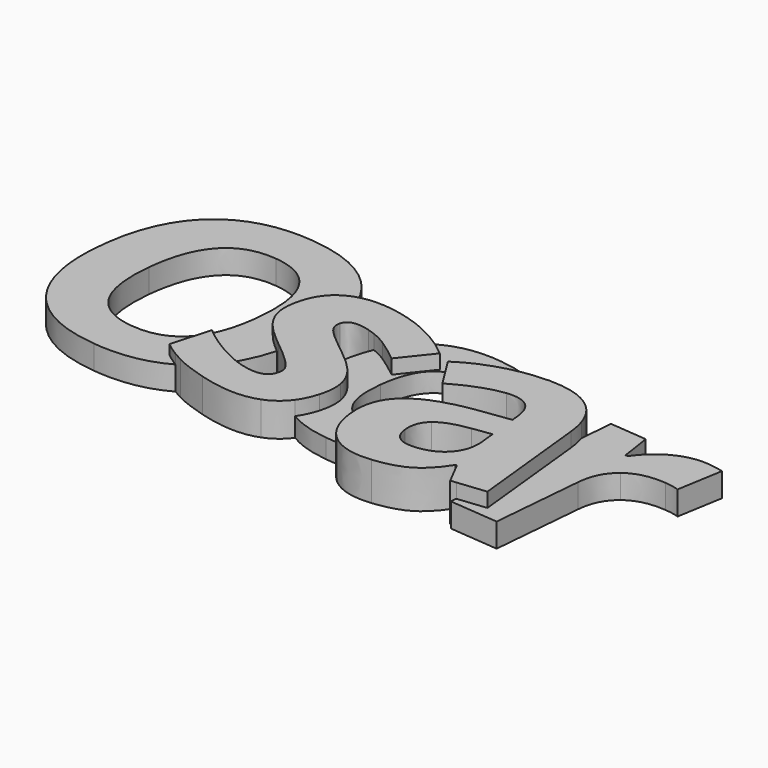
from build123d import *

# Parameters (mm, degrees)
F1_DEPTH = 2.5
F2_DEPTH = 3.5
F3_DEPTH = 2
F4_DEPTH = 4
F5_DEPTH = 2.5


with BuildPart() as f1:
    # F0 (on Top) → F1 (new body)
    with BuildSketch(Plane.XY):
        with BuildLine():
            add(Edge.make_bspline(
                [(-26.2012607292, -7.9470883345), (-26.8828301853, -8.9074317633), (-27.7417516135, -9.6639204746)],
                knots=[0.7456392645, 0.7456392645, 0.7456392645, 1, 1, 1], degree=2))
            add(Edge.make_bspline(
                [(-26.7376853895, -7.6464975971), (-26.465308143, -7.8047908634), (-26.2012607292, -7.9470883345)],
                knots=[0, 0, 0, 0.1690185658, 0.1690185658, 0.1690185658], degree=2))
            add(Edge.make_bspline(
                [(-29.5456779618, -5.6633392455), (-28.3492080362, -6.7099539366), (-26.7376853895, -7.6464975971)],
                knots=[0, 0, 0, 1, 1, 1], degree=2))
            Line((-29.5456779618, -5.6633392455), (-30.7171863832, -9.7692274874))
            add(Edge.make_bspline(
                [(-29.2894893449, -10.7723393822), (-30.0522189607, -10.3089419389), (-30.7171863832, -9.7692274874)],
                knots=[0.3796673678, 0.3796673678, 0.3796673678, 1, 1, 1], degree=2))
            add(Edge.make_bspline(
                [(-27.7417516135, -9.6639204746), (-28.4633479267, -10.2994611039), (-29.2894893449, -10.7723393822)],
                knots=[0, 0, 0, 0.2136933169, 0.2136933169, 0.2136933169], degree=2))
        make_face()
        with BuildLine():
            add(Edge.make_bspline(
                [(-24.2995328681, -3.7453658675), (-24.9529213499, -6.188156051), (-26.2012607292, -7.9470883345)],
                knots=[0.2797608131, 0.2797608131, 0.2797608131, 0.7456392645, 0.7456392645, 0.7456392645], degree=2))
            add(Edge.make_bspline(
                [(-24.2995328681, -3.7453658675), (-25.7424383845, -2.5384222577), (-26.4026306936, -1.6573454121)],
                knots=[0.1473611547, 0.1473611547, 0.1473611547, 1, 1, 1], degree=2))
            add(Edge.make_bspline(
                [(-26.4026306936, -1.6573454121), (-27.1769237167, -0.6239924862), (-27.3461141593, 0.4736684834)],
                knots=[0, 0, 0, 1, 1, 1], degree=2))
            add(Edge.make_bspline(
                [(-27.3461141593, 0.4736684834), (-27.5153046019, 1.5713294529), (-27.1119008125, 2.9851740699)],
                knots=[0, 0, 0, 1, 1, 1], degree=2))
            add(Edge.make_bspline(
                [(-27.1119008125, 2.9851740699), (-26.4319065298, 5.3684096308), (-24.2471294552, 6.1756458661)],
                knots=[0, 0, 0, 0.9802766592, 0.9802766592, 0.9802766592], degree=2))
            add(Edge.make_bspline(
                [(-25.7641411364, 9.1560877701), (-24.7821335347, 7.8381607888), (-24.2471294552, 6.1756458661)],
                knots=[0, 0, 0, 0.3675832045, 0.3675832045, 0.3675832045], degree=2))
            add(Edge.make_bspline(
                [(-34.1180403279, 13.3311660192), (-28.4356658138, 12.741471883), (-25.7641411364, 9.1560877701)],
                knots=[0, 0, 0, 1, 1, 1], degree=2))
            add(Edge.make_bspline(
                [(-43.1808139388, 10.9907929404), (-39.8004148421, 13.9208601554), (-34.1180403279, 13.3311660192)],
                knots=[0, 0, 0, 1, 1, 1], degree=2))
            add(Edge.make_bspline(
                [(-47.2001883532, 1.9034709099), (-46.5612130356, 8.0607257253), (-43.1808139388, 10.9907929404)],
                knots=[0, 0, 0, 1, 1, 1], degree=2))
            add(Edge.make_bspline(
                [(-45.1450353819, -7.8578771799), (-47.8391636708, -4.2537839055), (-47.2001883532, 1.9034709099)],
                knots=[0, 0, 0, 1, 1, 1], degree=2))
            add(Edge.make_bspline(
                [(-36.7847216801, -12.0499845503), (-42.450907093, -11.4619704544), (-45.1450353819, -7.8578771799)],
                knots=[0, 0, 0, 1, 1, 1], degree=2))
            add(Edge.make_bspline(
                [(-29.2894893449, -10.7723393822), (-32.3293622224, -12.5123439637), (-36.7847216801, -12.0499845503)],
                knots=[0.2136933169, 0.2136933169, 0.2136933169, 1, 1, 1], degree=2))
            add(Edge.make_bspline(
                [(-29.2894893449, -10.7723393822), (-30.0522189607, -10.3089419389), (-30.7171863832, -9.7692274874)],
                knots=[0.3796673678, 0.3796673678, 0.3796673678, 1, 1, 1], degree=2))
            Line((-30.7171863832, -9.7692274874), (-29.5456779618, -5.6633392455))
            add(Edge.make_bspline(
                [(-29.5456779618, -5.6633392455), (-28.3492080362, -6.7099539366), (-26.7376853895, -7.6464975971)],
                knots=[0, 0, 0, 1, 1, 1], degree=2))
            add(Edge.make_bspline(
                [(-26.7376853895, -7.6464975971), (-26.465308143, -7.8047908634), (-26.2012607292, -7.9470883345)],
                knots=[0, 0, 0, 0.1690185658, 0.1690185658, 0.1690185658], degree=2))
        make_face()
        with BuildLine():
            add(Edge.make_bspline(
                [(-41.7208395008, 1.3021190681), (-42.1498097842, -2.8314980999), (-40.7991703553, -5.0852742355)],
                knots=[0, 0, 0, 1, 1, 1], degree=2))
            add(Edge.make_bspline(
                [(-39.4907502766, 7.3651627151), (-41.2924292309, 5.4303398689), (-41.7208395008, 1.3021190681)],
                knots=[0, 0, 0, 1, 1, 1], degree=2))
            add(Edge.make_bspline(
                [(-34.5699711617, 8.9762978018), (-37.6890713223, 9.2999855613), (-39.4907502766, 7.3651627151)],
                knots=[0, 0, 0, 1, 1, 1], degree=2))
            add(Edge.make_bspline(
                [(-29.2120606558, 0.0040079496), (-28.3479599415, 8.3306023231), (-34.5699711617, 8.9762978018)],
                knots=[0, 0, 0, 1, 1, 1], degree=2))
            add(Edge.make_bspline(
                [(-36.3294307658, -7.6627381306), (-30.0750413433, -8.3117936898), (-29.2120606558, 0.0040079496)],
                knots=[0, 0, 0, 1, 1, 1], degree=2))
            add(Edge.make_bspline(
                [(-40.7991703553, -5.0852742355), (-39.4485309265, -7.3390503711), (-36.3294307658, -7.6627381306)],
                knots=[0, 0, 0, 1, 1, 1], degree=2))
        make_face(mode=Mode.SUBTRACT)
        with BuildLine():
            add(Edge.make_bspline(
                [(-23.7293517229, -0.5649656899), (-23.9071719585, -2.2784661514), (-24.2995328681, -3.7453658675)],
                knots=[0, 0, 0, 0.2797608131, 0.2797608131, 0.2797608131], degree=2))
            add(Edge.make_bspline(
                [(-24.2471294552, 6.1756458661), (-23.3266696477, 3.3153346572), (-23.7293517229, -0.5649656899)],
                knots=[0.3675832045, 0.3675832045, 0.3675832045, 1, 1, 1], degree=2))
            add(Edge.make_bspline(
                [(-27.1119008125, 2.9851740699), (-26.4319065298, 5.3684096308), (-24.2471294552, 6.1756458661)],
                knots=[0, 0, 0, 0.9802766592, 0.9802766592, 0.9802766592], degree=2))
            add(Edge.make_bspline(
                [(-27.3461141593, 0.4736684834), (-27.5153046019, 1.5713294529), (-27.1119008125, 2.9851740699)],
                knots=[0, 0, 0, 1, 1, 1], degree=2))
            add(Edge.make_bspline(
                [(-26.4026306936, -1.6573454121), (-27.1769237167, -0.6239924862), (-27.3461141593, 0.4736684834)],
                knots=[0, 0, 0, 1, 1, 1], degree=2))
            add(Edge.make_bspline(
                [(-24.2995328681, -3.7453658675), (-25.7424383845, -2.5384222577), (-26.4026306936, -1.6573454121)],
                knots=[0.1473611547, 0.1473611547, 0.1473611547, 1, 1, 1], degree=2))
        make_face()
        with BuildLine():
            add(Edge.make_bspline(
                [(-24.2995328681, -3.7453658675), (-24.9529213499, -6.188156051), (-26.2012607292, -7.9470883345)],
                knots=[0.2797608131, 0.2797608131, 0.2797608131, 0.7456392645, 0.7456392645, 0.7456392645], degree=2))
            add(Edge.make_bspline(
                [(-24.2995328681, -3.7453658675), (-25.7424383845, -2.5384222577), (-26.4026306936, -1.6573454121)],
                knots=[0.1473611547, 0.1473611547, 0.1473611547, 1, 1, 1], degree=2))
            add(Edge.make_bspline(
                [(-26.4026306936, -1.6573454121), (-27.1769237167, -0.6239924862), (-27.3461141593, 0.4736684834)],
                knots=[0, 0, 0, 1, 1, 1], degree=2))
            add(Edge.make_bspline(
                [(-27.3461141593, 0.4736684834), (-27.5153046019, 1.5713294529), (-27.1119008125, 2.9851740699)],
                knots=[0, 0, 0, 1, 1, 1], degree=2))
            add(Edge.make_bspline(
                [(-27.1119008125, 2.9851740699), (-26.4319065298, 5.3684096308), (-24.2471294552, 6.1756458661)],
                knots=[0, 0, 0, 0.9802766592, 0.9802766592, 0.9802766592], degree=2))
            add(Edge.make_bspline(
                [(-25.7641411364, 9.1560877701), (-24.7821335347, 7.8381607888), (-24.2471294552, 6.1756458661)],
                knots=[0, 0, 0, 0.3675832045, 0.3675832045, 0.3675832045], degree=2))
            add(Edge.make_bspline(
                [(-34.1180403279, 13.3311660192), (-28.4356658138, 12.741471883), (-25.7641411364, 9.1560877701)],
                knots=[0, 0, 0, 1, 1, 1], degree=2))
            add(Edge.make_bspline(
                [(-43.1808139388, 10.9907929404), (-39.8004148421, 13.9208601554), (-34.1180403279, 13.3311660192)],
                knots=[0, 0, 0, 1, 1, 1], degree=2))
            add(Edge.make_bspline(
                [(-47.2001883532, 1.9034709099), (-46.5612130356, 8.0607257253), (-43.1808139388, 10.9907929404)],
                knots=[0, 0, 0, 1, 1, 1], degree=2))
            add(Edge.make_bspline(
                [(-45.1450353819, -7.8578771799), (-47.8391636708, -4.2537839055), (-47.2001883532, 1.9034709099)],
                knots=[0, 0, 0, 1, 1, 1], degree=2))
            add(Edge.make_bspline(
                [(-36.7847216801, -12.0499845503), (-42.450907093, -11.4619704544), (-45.1450353819, -7.8578771799)],
                knots=[0, 0, 0, 1, 1, 1], degree=2))
            add(Edge.make_bspline(
                [(-29.2894893449, -10.7723393822), (-32.3293622224, -12.5123439637), (-36.7847216801, -12.0499845503)],
                knots=[0.2136933169, 0.2136933169, 0.2136933169, 1, 1, 1], degree=2))
            add(Edge.make_bspline(
                [(-29.2894893449, -10.7723393822), (-30.0522189607, -10.3089419389), (-30.7171863832, -9.7692274874)],
                knots=[0.3796673678, 0.3796673678, 0.3796673678, 1, 1, 1], degree=2))
            Line((-30.7171863832, -9.7692274874), (-29.5456779618, -5.6633392455))
            add(Edge.make_bspline(
                [(-29.5456779618, -5.6633392455), (-28.3492080362, -6.7099539366), (-26.7376853895, -7.6464975971)],
                knots=[0, 0, 0, 1, 1, 1], degree=2))
            add(Edge.make_bspline(
                [(-26.7376853895, -7.6464975971), (-26.465308143, -7.8047908634), (-26.2012607292, -7.9470883345)],
                knots=[0, 0, 0, 0.1690185658, 0.1690185658, 0.1690185658], degree=2))
        make_face()
        with BuildLine():
            add(Edge.make_bspline(
                [(-41.7208395008, 1.3021190681), (-42.1498097842, -2.8314980999), (-40.7991703553, -5.0852742355)],
                knots=[0, 0, 0, 1, 1, 1], degree=2))
            add(Edge.make_bspline(
                [(-39.4907502766, 7.3651627151), (-41.2924292309, 5.4303398689), (-41.7208395008, 1.3021190681)],
                knots=[0, 0, 0, 1, 1, 1], degree=2))
            add(Edge.make_bspline(
                [(-34.5699711617, 8.9762978018), (-37.6890713223, 9.2999855613), (-39.4907502766, 7.3651627151)],
                knots=[0, 0, 0, 1, 1, 1], degree=2))
            add(Edge.make_bspline(
                [(-29.2120606558, 0.0040079496), (-28.3479599415, 8.3306023231), (-34.5699711617, 8.9762978018)],
                knots=[0, 0, 0, 1, 1, 1], degree=2))
            add(Edge.make_bspline(
                [(-36.3294307658, -7.6627381306), (-30.0750413433, -8.3117936898), (-29.2120606558, 0.0040079496)],
                knots=[0, 0, 0, 1, 1, 1], degree=2))
            add(Edge.make_bspline(
                [(-40.7991703553, -5.0852742355), (-39.4485309265, -7.3390503711), (-36.3294307658, -7.6627381306)],
                knots=[0, 0, 0, 1, 1, 1], degree=2))
        make_face(mode=Mode.SUBTRACT)
    extrude(amount=F1_DEPTH)

    # F0 (on Top) → F2 (join)
    with BuildSketch(Plane.XY):
        with BuildLine():
            add(Edge.make_bspline(
                [(-16.5097582907, 5.3201339219), (-14.333011163, 4.3724577061), (-12.4427318379, 2.7490136793)],
                knots=[0.3012613587, 0.3012613587, 0.3012613587, 1, 1, 1], degree=2))
            add(Edge.make_bspline(
                [(-16.5162000367, 5.3147992013), (-16.5129804158, 5.3174685432), (-16.5097582907, 5.3201339219)],
                knots=[0, 0, 0, 0.0011929105, 0.0011929105, 0.0011929105], degree=2))
            add(Edge.make_bspline(
                [(-18.8361017338, 2.1042061315), (-17.9912420508, 4.0918628275), (-16.5162000367, 5.3147992013)],
                knots=[0.4534781826, 0.4534781826, 0.4534781826, 1, 1, 1], degree=2))
            add(Edge.make_bspline(
                [(-17.2504189894, 1.2829041064), (-18.0045770297, 1.7811299612), (-18.8361017338, 2.1042061315)],
                knots=[0, 0, 0, 0.6967910533, 0.6967910533, 0.6967910533], degree=2))
            add(Edge.make_bspline(
                [(-14.9627016104, -0.4079396947), (-16.1680887317, 0.5678750422), (-17.2504189894, 1.2829041064)],
                knots=[0, 0, 0, 1, 1, 1], degree=2))
            Line((-14.9627016104, -0.4079396947), (-12.4427318379, 2.7490136793))
        make_face()
        with BuildLine():
            add(Edge.make_bspline(
                [(-24.2471294552, 6.1756458661), (-23.3266696477, 3.3153346572), (-23.7293517229, -0.5649656899)],
                knots=[0.3675832045, 0.3675832045, 0.3675832045, 1, 1, 1], degree=2))
            add(Edge.make_bspline(
                [(-23.7293517229, -0.5649656899), (-23.9071719585, -2.2784661514), (-24.2995328681, -3.7453658675)],
                knots=[0, 0, 0, 0.2797608131, 0.2797608131, 0.2797608131], degree=2))
            add(Edge.make_bspline(
                [(-23.7773998837, -4.1722904686), (-24.0501562132, -3.9539613414), (-24.2995328681, -3.7453658675)],
                knots=[0, 0, 0, 0.1473611547, 0.1473611547, 0.1473611547], degree=2))
            add(Edge.make_bspline(
                [(-21.7404309872, -5.9213526052), (-22.4870357131, -5.206202386), (-23.7773998837, -4.1722904686)],
                knots=[0, 0, 0, 1, 1, 1], degree=2))
            add(Edge.make_bspline(
                [(-20.7387882118, -7.1070227763), (-20.9938262613, -6.6365028245), (-21.7404309872, -5.9213526052)],
                knots=[0, 0, 0, 1, 1, 1], degree=2))
            add(Edge.make_bspline(
                [(-20.6519591224, -8.1670794135), (-20.4837501623, -7.5775427282), (-20.7387882118, -7.1070227763)],
                knots=[0, 0, 0, 1, 1, 1], degree=2))
            add(Edge.make_bspline(
                [(-23.8062266243, -8.9596506993), (-21.0985315829, -9.732221056), (-20.6519591224, -8.1670794135)],
                knots=[0, 0, 0, 1, 1, 1], degree=2))
            add(Edge.make_bspline(
                [(-26.2012607292, -7.9470883345), (-24.9030690331, -8.6466952453), (-23.8062266243, -8.9596506993)],
                knots=[0.1690185658, 0.1690185658, 0.1690185658, 1, 1, 1], degree=2))
            add(Edge.make_bspline(
                [(-26.2012607292, -7.9470883345), (-26.8828301853, -8.9074317633), (-27.7417516135, -9.6639204746)],
                knots=[0.7456392645, 0.7456392645, 0.7456392645, 1, 1, 1], degree=2))
            add(Edge.make_bspline(
                [(-27.7417516135, -9.6639204746), (-28.4633479267, -10.2994611039), (-29.2894893449, -10.7723393822)],
                knots=[0, 0, 0, 0.2136933169, 0.2136933169, 0.2136933169], degree=2))
            add(Edge.make_bspline(
                [(-28.3192289427, -11.3109857451), (-28.8226695606, -11.0559563942), (-29.2894893449, -10.7723393822)],
                knots=[0, 0, 0, 0.3796673678, 0.3796673678, 0.3796673678], degree=2))
            add(Edge.make_bspline(
                [(-25.0054946106, -12.5498506276), (-26.9932244965, -11.9827036027), (-28.3192289427, -11.3109857451)],
                knots=[0, 0, 0, 1, 1, 1], degree=2))
            add(Edge.make_bspline(
                [(-18.7563081672, -12.7447084686), (-21.1239433374, -13.6573503297), (-25.0054946106, -12.5498506276)],
                knots=[0, 0, 0, 1, 1, 1], degree=2))
            add(Edge.make_bspline(
                [(-16.5382450603, -11.05067248), (-17.3841573162, -12.2157915467), (-18.7563081672, -12.7447084686)],
                knots=[0.4204551157, 0.4204551157, 0.4204551157, 1, 1, 1], degree=2))
            add(Edge.make_bspline(
                [(-16.5382450603, -11.05067248), (-20.6372867392, -8.5051427712), (-19.8042772645, -1.7208250315)],
                knots=[0.2965514387, 0.2965514387, 0.2965514387, 1, 1, 1], degree=2))
            add(Edge.make_bspline(
                [(-19.8042772645, -1.7208250315), (-19.7810809929, -1.5319065598), (-19.754613664, -1.3469574854)],
                knots=[0, 0, 0, 0.03937481, 0.03937481, 0.03937481], degree=2))
            add(Edge.make_bspline(
                [(-21.7363886734, 0.430233938), (-21.2691411001, -0.138117727), (-19.754613664, -1.3469574854)],
                knots=[0, 0, 0, 0.820301269, 0.820301269, 0.820301269], degree=2))
            add(Edge.make_bspline(
                [(-22.1154559305, 1.7908849355), (-22.3059935136, 1.1230911681), (-21.7363886734, 0.430233938)],
                knots=[0, 0, 0, 1, 1, 1], degree=2))
            add(Edge.make_bspline(
                [(-19.5744282835, 2.3522139893), (-21.7760608605, 2.9803925838), (-22.1154559305, 1.7908849355)],
                knots=[0, 0, 0, 1, 1, 1], degree=2))
            add(Edge.make_bspline(
                [(-18.8361017338, 2.1042061315), (-19.1979400906, 2.2447928754), (-19.5744282835, 2.3522139893)],
                knots=[0.6967910533, 0.6967910533, 0.6967910533, 1, 1, 1], degree=2))
            add(Edge.make_bspline(
                [(-18.8361017338, 2.1042061315), (-17.9912420508, 4.0918628275), (-16.5162000367, 5.3147992013)],
                knots=[0.4534781826, 0.4534781826, 0.4534781826, 1, 1, 1], degree=2))
            add(Edge.make_bspline(
                [(-16.5162000367, 5.3147992013), (-16.5129804158, 5.3174685432), (-16.5097582907, 5.3201339219)],
                knots=[0, 0, 0, 0.0011929105, 0.0011929105, 0.0011929105], degree=2))
            add(Edge.make_bspline(
                [(-18.4400202054, 6.0116967899), (-17.4482634178, 5.7287247847), (-16.5097582907, 5.3201339219)],
                knots=[0, 0, 0, 0.3012613587, 0.3012613587, 0.3012613587], degree=2))
            add(Edge.make_bspline(
                [(-24.1586040795, 6.2074913411), (-21.8989832352, 6.9986219277), (-18.4400202054, 6.0116967899)],
                knots=[0, 0, 0, 1, 1, 1], degree=2))
            add(Edge.make_bspline(
                [(-24.2471294552, 6.1756458661), (-24.2031713516, 6.1918876029), (-24.1586040795, 6.2074913411)],
                knots=[0.9802766592, 0.9802766592, 0.9802766592, 1, 1, 1], degree=2))
        make_face()
        with BuildLine():
            add(Edge.make_bspline(
                [(-16.5097582907, 5.3201339219), (-14.333011163, 4.3724577061), (-12.4427318379, 2.7490136793)],
                knots=[0.3012613587, 0.3012613587, 0.3012613587, 1, 1, 1], degree=2))
            add(Edge.make_bspline(
                [(-16.5162000367, 5.3147992013), (-16.5129804158, 5.3174685432), (-16.5097582907, 5.3201339219)],
                knots=[0, 0, 0, 0.0011929105, 0.0011929105, 0.0011929105], degree=2))
            add(Edge.make_bspline(
                [(-18.8361017338, 2.1042061315), (-17.9912420508, 4.0918628275), (-16.5162000367, 5.3147992013)],
                knots=[0.4534781826, 0.4534781826, 0.4534781826, 1, 1, 1], degree=2))
            add(Edge.make_bspline(
                [(-17.2504189894, 1.2829041064), (-18.0045770297, 1.7811299612), (-18.8361017338, 2.1042061315)],
                knots=[0, 0, 0, 0.6967910533, 0.6967910533, 0.6967910533], degree=2))
            add(Edge.make_bspline(
                [(-14.9627016104, -0.4079396947), (-16.1680887317, 0.5678750422), (-17.2504189894, 1.2829041064)],
                knots=[0, 0, 0, 1, 1, 1], degree=2))
            Line((-14.9627016104, -0.4079396947), (-12.4427318379, 2.7490136793))
        make_face()
        with BuildLine():
            add(Edge.make_bspline(
                [(-23.7293517229, -0.5649656899), (-23.9071719585, -2.2784661514), (-24.2995328681, -3.7453658675)],
                knots=[0, 0, 0, 0.2797608131, 0.2797608131, 0.2797608131], degree=2))
            add(Edge.make_bspline(
                [(-24.2471294552, 6.1756458661), (-23.3266696477, 3.3153346572), (-23.7293517229, -0.5649656899)],
                knots=[0.3675832045, 0.3675832045, 0.3675832045, 1, 1, 1], degree=2))
            add(Edge.make_bspline(
                [(-27.1119008125, 2.9851740699), (-26.4319065298, 5.3684096308), (-24.2471294552, 6.1756458661)],
                knots=[0, 0, 0, 0.9802766592, 0.9802766592, 0.9802766592], degree=2))
            add(Edge.make_bspline(
                [(-27.3461141593, 0.4736684834), (-27.5153046019, 1.5713294529), (-27.1119008125, 2.9851740699)],
                knots=[0, 0, 0, 1, 1, 1], degree=2))
            add(Edge.make_bspline(
                [(-26.4026306936, -1.6573454121), (-27.1769237167, -0.6239924862), (-27.3461141593, 0.4736684834)],
                knots=[0, 0, 0, 1, 1, 1], degree=2))
            add(Edge.make_bspline(
                [(-24.2995328681, -3.7453658675), (-25.7424383845, -2.5384222577), (-26.4026306936, -1.6573454121)],
                knots=[0.1473611547, 0.1473611547, 0.1473611547, 1, 1, 1], degree=2))
        make_face()
        with BuildLine():
            add(Edge.make_bspline(
                [(-24.2471294552, 6.1756458661), (-23.3266696477, 3.3153346572), (-23.7293517229, -0.5649656899)],
                knots=[0.3675832045, 0.3675832045, 0.3675832045, 1, 1, 1], degree=2))
            add(Edge.make_bspline(
                [(-23.7293517229, -0.5649656899), (-23.9071719585, -2.2784661514), (-24.2995328681, -3.7453658675)],
                knots=[0, 0, 0, 0.2797608131, 0.2797608131, 0.2797608131], degree=2))
            add(Edge.make_bspline(
                [(-23.7773998837, -4.1722904686), (-24.0501562132, -3.9539613414), (-24.2995328681, -3.7453658675)],
                knots=[0, 0, 0, 0.1473611547, 0.1473611547, 0.1473611547], degree=2))
            add(Edge.make_bspline(
                [(-21.7404309872, -5.9213526052), (-22.4870357131, -5.206202386), (-23.7773998837, -4.1722904686)],
                knots=[0, 0, 0, 1, 1, 1], degree=2))
            add(Edge.make_bspline(
                [(-20.7387882118, -7.1070227763), (-20.9938262613, -6.6365028245), (-21.7404309872, -5.9213526052)],
                knots=[0, 0, 0, 1, 1, 1], degree=2))
            add(Edge.make_bspline(
                [(-20.6519591224, -8.1670794135), (-20.4837501623, -7.5775427282), (-20.7387882118, -7.1070227763)],
                knots=[0, 0, 0, 1, 1, 1], degree=2))
            add(Edge.make_bspline(
                [(-23.8062266243, -8.9596506993), (-21.0985315829, -9.732221056), (-20.6519591224, -8.1670794135)],
                knots=[0, 0, 0, 1, 1, 1], degree=2))
            add(Edge.make_bspline(
                [(-26.2012607292, -7.9470883345), (-24.9030690331, -8.6466952453), (-23.8062266243, -8.9596506993)],
                knots=[0.1690185658, 0.1690185658, 0.1690185658, 1, 1, 1], degree=2))
            add(Edge.make_bspline(
                [(-26.2012607292, -7.9470883345), (-26.8828301853, -8.9074317633), (-27.7417516135, -9.6639204746)],
                knots=[0.7456392645, 0.7456392645, 0.7456392645, 1, 1, 1], degree=2))
            add(Edge.make_bspline(
                [(-27.7417516135, -9.6639204746), (-28.4633479267, -10.2994611039), (-29.2894893449, -10.7723393822)],
                knots=[0, 0, 0, 0.2136933169, 0.2136933169, 0.2136933169], degree=2))
            add(Edge.make_bspline(
                [(-28.3192289427, -11.3109857451), (-28.8226695606, -11.0559563942), (-29.2894893449, -10.7723393822)],
                knots=[0, 0, 0, 0.3796673678, 0.3796673678, 0.3796673678], degree=2))
            add(Edge.make_bspline(
                [(-25.0054946106, -12.5498506276), (-26.9932244965, -11.9827036027), (-28.3192289427, -11.3109857451)],
                knots=[0, 0, 0, 1, 1, 1], degree=2))
            add(Edge.make_bspline(
                [(-18.7563081672, -12.7447084686), (-21.1239433374, -13.6573503297), (-25.0054946106, -12.5498506276)],
                knots=[0, 0, 0, 1, 1, 1], degree=2))
            add(Edge.make_bspline(
                [(-16.5382450603, -11.05067248), (-17.3841573162, -12.2157915467), (-18.7563081672, -12.7447084686)],
                knots=[0.4204551157, 0.4204551157, 0.4204551157, 1, 1, 1], degree=2))
            add(Edge.make_bspline(
                [(-16.5382450603, -11.05067248), (-20.6372867392, -8.5051427712), (-19.8042772645, -1.7208250315)],
                knots=[0.2965514387, 0.2965514387, 0.2965514387, 1, 1, 1], degree=2))
            add(Edge.make_bspline(
                [(-19.8042772645, -1.7208250315), (-19.7810809929, -1.5319065598), (-19.754613664, -1.3469574854)],
                knots=[0, 0, 0, 0.03937481, 0.03937481, 0.03937481], degree=2))
            add(Edge.make_bspline(
                [(-21.7363886734, 0.430233938), (-21.2691411001, -0.138117727), (-19.754613664, -1.3469574854)],
                knots=[0, 0, 0, 0.820301269, 0.820301269, 0.820301269], degree=2))
            add(Edge.make_bspline(
                [(-22.1154559305, 1.7908849355), (-22.3059935136, 1.1230911681), (-21.7363886734, 0.430233938)],
                knots=[0, 0, 0, 1, 1, 1], degree=2))
            add(Edge.make_bspline(
                [(-19.5744282835, 2.3522139893), (-21.7760608605, 2.9803925838), (-22.1154559305, 1.7908849355)],
                knots=[0, 0, 0, 1, 1, 1], degree=2))
            add(Edge.make_bspline(
                [(-18.8361017338, 2.1042061315), (-19.1979400906, 2.2447928754), (-19.5744282835, 2.3522139893)],
                knots=[0.6967910533, 0.6967910533, 0.6967910533, 1, 1, 1], degree=2))
            add(Edge.make_bspline(
                [(-18.8361017338, 2.1042061315), (-17.9912420508, 4.0918628275), (-16.5162000367, 5.3147992013)],
                knots=[0.4534781826, 0.4534781826, 0.4534781826, 1, 1, 1], degree=2))
            add(Edge.make_bspline(
                [(-16.5162000367, 5.3147992013), (-16.5129804158, 5.3174685432), (-16.5097582907, 5.3201339219)],
                knots=[0, 0, 0, 0.0011929105, 0.0011929105, 0.0011929105], degree=2))
            add(Edge.make_bspline(
                [(-18.4400202054, 6.0116967899), (-17.4482634178, 5.7287247847), (-16.5097582907, 5.3201339219)],
                knots=[0, 0, 0, 0.3012613587, 0.3012613587, 0.3012613587], degree=2))
            add(Edge.make_bspline(
                [(-24.1586040795, 6.2074913411), (-21.8989832352, 6.9986219277), (-18.4400202054, 6.0116967899)],
                knots=[0, 0, 0, 1, 1, 1], degree=2))
            add(Edge.make_bspline(
                [(-24.2471294552, 6.1756458661), (-24.2031713516, 6.1918876029), (-24.1586040795, 6.2074913411)],
                knots=[0.9802766592, 0.9802766592, 0.9802766592, 1, 1, 1], degree=2))
        make_face()
        with BuildLine():
            add(Edge.make_bspline(
                [(-23.7293517229, -0.5649656899), (-23.9071719585, -2.2784661514), (-24.2995328681, -3.7453658675)],
                knots=[0, 0, 0, 0.2797608131, 0.2797608131, 0.2797608131], degree=2))
            add(Edge.make_bspline(
                [(-24.2471294552, 6.1756458661), (-23.3266696477, 3.3153346572), (-23.7293517229, -0.5649656899)],
                knots=[0.3675832045, 0.3675832045, 0.3675832045, 1, 1, 1], degree=2))
            add(Edge.make_bspline(
                [(-27.1119008125, 2.9851740699), (-26.4319065298, 5.3684096308), (-24.2471294552, 6.1756458661)],
                knots=[0, 0, 0, 0.9802766592, 0.9802766592, 0.9802766592], degree=2))
            add(Edge.make_bspline(
                [(-27.3461141593, 0.4736684834), (-27.5153046019, 1.5713294529), (-27.1119008125, 2.9851740699)],
                knots=[0, 0, 0, 1, 1, 1], degree=2))
            add(Edge.make_bspline(
                [(-26.4026306936, -1.6573454121), (-27.1769237167, -0.6239924862), (-27.3461141593, 0.4736684834)],
                knots=[0, 0, 0, 1, 1, 1], degree=2))
            add(Edge.make_bspline(
                [(-24.2995328681, -3.7453658675), (-25.7424383845, -2.5384222577), (-26.4026306936, -1.6573454121)],
                knots=[0.1473611547, 0.1473611547, 0.1473611547, 1, 1, 1], degree=2))
        make_face()
        with BuildLine():
            add(Edge.make_bspline(
                [(-24.2471294552, 6.1756458661), (-23.3266696477, 3.3153346572), (-23.7293517229, -0.5649656899)],
                knots=[0.3675832045, 0.3675832045, 0.3675832045, 1, 1, 1], degree=2))
            add(Edge.make_bspline(
                [(-23.7293517229, -0.5649656899), (-23.9071719585, -2.2784661514), (-24.2995328681, -3.7453658675)],
                knots=[0, 0, 0, 0.2797608131, 0.2797608131, 0.2797608131], degree=2))
            add(Edge.make_bspline(
                [(-23.7773998837, -4.1722904686), (-24.0501562132, -3.9539613414), (-24.2995328681, -3.7453658675)],
                knots=[0, 0, 0, 0.1473611547, 0.1473611547, 0.1473611547], degree=2))
            add(Edge.make_bspline(
                [(-21.7404309872, -5.9213526052), (-22.4870357131, -5.206202386), (-23.7773998837, -4.1722904686)],
                knots=[0, 0, 0, 1, 1, 1], degree=2))
            add(Edge.make_bspline(
                [(-20.7387882118, -7.1070227763), (-20.9938262613, -6.6365028245), (-21.7404309872, -5.9213526052)],
                knots=[0, 0, 0, 1, 1, 1], degree=2))
            add(Edge.make_bspline(
                [(-20.6519591224, -8.1670794135), (-20.4837501623, -7.5775427282), (-20.7387882118, -7.1070227763)],
                knots=[0, 0, 0, 1, 1, 1], degree=2))
            add(Edge.make_bspline(
                [(-23.8062266243, -8.9596506993), (-21.0985315829, -9.732221056), (-20.6519591224, -8.1670794135)],
                knots=[0, 0, 0, 1, 1, 1], degree=2))
            add(Edge.make_bspline(
                [(-26.2012607292, -7.9470883345), (-24.9030690331, -8.6466952453), (-23.8062266243, -8.9596506993)],
                knots=[0.1690185658, 0.1690185658, 0.1690185658, 1, 1, 1], degree=2))
            add(Edge.make_bspline(
                [(-26.2012607292, -7.9470883345), (-26.8828301853, -8.9074317633), (-27.7417516135, -9.6639204746)],
                knots=[0.7456392645, 0.7456392645, 0.7456392645, 1, 1, 1], degree=2))
            add(Edge.make_bspline(
                [(-27.7417516135, -9.6639204746), (-28.4633479267, -10.2994611039), (-29.2894893449, -10.7723393822)],
                knots=[0, 0, 0, 0.2136933169, 0.2136933169, 0.2136933169], degree=2))
            add(Edge.make_bspline(
                [(-28.3192289427, -11.3109857451), (-28.8226695606, -11.0559563942), (-29.2894893449, -10.7723393822)],
                knots=[0, 0, 0, 0.3796673678, 0.3796673678, 0.3796673678], degree=2))
            add(Edge.make_bspline(
                [(-25.0054946106, -12.5498506276), (-26.9932244965, -11.9827036027), (-28.3192289427, -11.3109857451)],
                knots=[0, 0, 0, 1, 1, 1], degree=2))
            add(Edge.make_bspline(
                [(-18.7563081672, -12.7447084686), (-21.1239433374, -13.6573503297), (-25.0054946106, -12.5498506276)],
                knots=[0, 0, 0, 1, 1, 1], degree=2))
            add(Edge.make_bspline(
                [(-16.5382450603, -11.05067248), (-17.3841573162, -12.2157915467), (-18.7563081672, -12.7447084686)],
                knots=[0.4204551157, 0.4204551157, 0.4204551157, 1, 1, 1], degree=2))
            add(Edge.make_bspline(
                [(-16.5382450603, -11.05067248), (-20.6372867392, -8.5051427712), (-19.8042772645, -1.7208250315)],
                knots=[0.2965514387, 0.2965514387, 0.2965514387, 1, 1, 1], degree=2))
            add(Edge.make_bspline(
                [(-19.8042772645, -1.7208250315), (-19.7810809929, -1.5319065598), (-19.754613664, -1.3469574854)],
                knots=[0, 0, 0, 0.03937481, 0.03937481, 0.03937481], degree=2))
            add(Edge.make_bspline(
                [(-21.7363886734, 0.430233938), (-21.2691411001, -0.138117727), (-19.754613664, -1.3469574854)],
                knots=[0, 0, 0, 0.820301269, 0.820301269, 0.820301269], degree=2))
            add(Edge.make_bspline(
                [(-22.1154559305, 1.7908849355), (-22.3059935136, 1.1230911681), (-21.7363886734, 0.430233938)],
                knots=[0, 0, 0, 1, 1, 1], degree=2))
            add(Edge.make_bspline(
                [(-19.5744282835, 2.3522139893), (-21.7760608605, 2.9803925838), (-22.1154559305, 1.7908849355)],
                knots=[0, 0, 0, 1, 1, 1], degree=2))
            add(Edge.make_bspline(
                [(-18.8361017338, 2.1042061315), (-19.1979400906, 2.2447928754), (-19.5744282835, 2.3522139893)],
                knots=[0.6967910533, 0.6967910533, 0.6967910533, 1, 1, 1], degree=2))
            add(Edge.make_bspline(
                [(-18.8361017338, 2.1042061315), (-17.9912420508, 4.0918628275), (-16.5162000367, 5.3147992013)],
                knots=[0.4534781826, 0.4534781826, 0.4534781826, 1, 1, 1], degree=2))
            add(Edge.make_bspline(
                [(-16.5162000367, 5.3147992013), (-16.5129804158, 5.3174685432), (-16.5097582907, 5.3201339219)],
                knots=[0, 0, 0, 0.0011929105, 0.0011929105, 0.0011929105], degree=2))
            add(Edge.make_bspline(
                [(-18.4400202054, 6.0116967899), (-17.4482634178, 5.7287247847), (-16.5097582907, 5.3201339219)],
                knots=[0, 0, 0, 0.3012613587, 0.3012613587, 0.3012613587], degree=2))
            add(Edge.make_bspline(
                [(-24.1586040795, 6.2074913411), (-21.8989832352, 6.9986219277), (-18.4400202054, 6.0116967899)],
                knots=[0, 0, 0, 1, 1, 1], degree=2))
            add(Edge.make_bspline(
                [(-24.2471294552, 6.1756458661), (-24.2031713516, 6.1918876029), (-24.1586040795, 6.2074913411)],
                knots=[0.9802766592, 0.9802766592, 0.9802766592, 1, 1, 1], degree=2))
        make_face()
        with BuildLine():
            add(Edge.make_bspline(
                [(-19.754613664, -1.3469574854), (-19.4228347571, -1.6117711323), (-19.0407977572, -1.9073212722)],
                knots=[0.820301269, 0.820301269, 0.820301269, 1, 1, 1], degree=2))
            add(Edge.make_bspline(
                [(-19.8042772645, -1.7208250315), (-19.7810809929, -1.5319065598), (-19.754613664, -1.3469574854)],
                knots=[0, 0, 0, 0.03937481, 0.03937481, 0.03937481], degree=2))
            add(Edge.make_bspline(
                [(-16.5382450603, -11.05067248), (-20.6372867392, -8.5051427712), (-19.8042772645, -1.7208250315)],
                knots=[0.2965514387, 0.2965514387, 0.2965514387, 1, 1, 1], degree=2))
            add(Edge.make_bspline(
                [(-15.5878197177, -9.0252459287), (-15.9245425758, -10.2053880418), (-16.5382450603, -11.05067248)],
                knots=[0, 0, 0, 0.4204551157, 0.4204551157, 0.4204551157], degree=2))
            add(Edge.make_bspline(
                [(-15.3979306705, -6.5603331379), (-15.2022788268, -7.6740069774), (-15.5878197177, -9.0252459287)],
                knots=[0, 0, 0, 1, 1, 1], degree=2))
            add(Edge.make_bspline(
                [(-16.3738369635, -4.4144263669), (-15.5935825142, -5.4466592983), (-15.3979306705, -6.5603331379)],
                knots=[0, 0, 0, 1, 1, 1], degree=2))
            add(Edge.make_bspline(
                [(-19.0407977572, -1.9073212722), (-17.1540914128, -3.3821934355), (-16.3738369635, -4.4144263669)],
                knots=[0, 0, 0, 1, 1, 1], degree=2))
        make_face()
        with BuildLine():
            add(Edge.make_bspline(
                [(-26.2012607292, -7.9470883345), (-26.8828301853, -8.9074317633), (-27.7417516135, -9.6639204746)],
                knots=[0.7456392645, 0.7456392645, 0.7456392645, 1, 1, 1], degree=2))
            add(Edge.make_bspline(
                [(-26.7376853895, -7.6464975971), (-26.465308143, -7.8047908634), (-26.2012607292, -7.9470883345)],
                knots=[0, 0, 0, 0.1690185658, 0.1690185658, 0.1690185658], degree=2))
            add(Edge.make_bspline(
                [(-29.5456779618, -5.6633392455), (-28.3492080362, -6.7099539366), (-26.7376853895, -7.6464975971)],
                knots=[0, 0, 0, 1, 1, 1], degree=2))
            Line((-29.5456779618, -5.6633392455), (-30.7171863832, -9.7692274874))
            add(Edge.make_bspline(
                [(-29.2894893449, -10.7723393822), (-30.0522189607, -10.3089419389), (-30.7171863832, -9.7692274874)],
                knots=[0.3796673678, 0.3796673678, 0.3796673678, 1, 1, 1], degree=2))
            add(Edge.make_bspline(
                [(-27.7417516135, -9.6639204746), (-28.4633479267, -10.2994611039), (-29.2894893449, -10.7723393822)],
                knots=[0, 0, 0, 0.2136933169, 0.2136933169, 0.2136933169], degree=2))
        make_face()
    extrude(amount=F2_DEPTH)

    # F0 (on Top) → F3 (join)
    with BuildSketch(Plane.XY):
        with BuildLine():
            Line((-5.6629523609, 1.2218121814), (-4.4001019031, 3.6056590895))
            add(Edge.make_bspline(
                [(-8.2451318666, 2.4734176855), (-6.4483233223, 3.2708991199), (-4.4001019031, 3.6056590895)],
                knots=[0.337198598, 0.337198598, 0.337198598, 0.8698819542, 0.8698819542, 0.8698819542], degree=2))
            add(Edge.make_bspline(
                [(-7.8180198104, 2.3008686962), (-8.0306547316, 2.3941454373), (-8.2451318666, 2.4734176855)],
                knots=[0, 0, 0, 0.2118656456, 0.2118656456, 0.2118656456], degree=2))
            add(Edge.make_bspline(
                [(-5.6629523609, 1.2218121814), (-6.8143888511, 1.8606050529), (-7.8180198104, 2.3008686962)],
                knots=[0, 0, 0, 1, 1, 1], degree=2))
        make_face()
        with BuildLine():
            add(Edge.make_bspline(
                [(-16.5097582907, 5.3201339219), (-13.8119184767, 7.5518177749), (-9.3585338952, 7.0050109045)],
                knots=[0.0011929105, 0.0011929105, 0.0011929105, 1, 1, 1], degree=2))
            add(Edge.make_bspline(
                [(-16.5097582907, 5.3201339219), (-14.333011163, 4.3724577061), (-12.4427318379, 2.7490136793)],
                knots=[0.3012613587, 0.3012613587, 0.3012613587, 1, 1, 1], degree=2))
            Line((-12.4427318379, 2.7490136793), (-14.9627016104, -0.4079396947))
            add(Edge.make_bspline(
                [(-14.9627016104, -0.4079396947), (-16.1680887317, 0.5678750422), (-17.2504189894, 1.2829041064)],
                knots=[0, 0, 0, 1, 1, 1], degree=2))
            add(Edge.make_bspline(
                [(-17.2504189894, 1.2829041064), (-18.0045770297, 1.7811299612), (-18.8361017338, 2.1042061315)],
                knots=[0, 0, 0, 0.6967910533, 0.6967910533, 0.6967910533], degree=2))
            add(Edge.make_bspline(
                [(-19.754613664, -1.3469574854), (-19.4762577769, 0.5981448635), (-18.8361017338, 2.1042061315)],
                knots=[0.03937481, 0.03937481, 0.03937481, 0.4534781826, 0.4534781826, 0.4534781826], degree=2))
            add(Edge.make_bspline(
                [(-19.754613664, -1.3469574854), (-19.4228347571, -1.6117711323), (-19.0407977572, -1.9073212722)],
                knots=[0.820301269, 0.820301269, 0.820301269, 1, 1, 1], degree=2))
            add(Edge.make_bspline(
                [(-19.0407977572, -1.9073212722), (-17.1540914128, -3.3821934355), (-16.3738369635, -4.4144263669)],
                knots=[0, 0, 0, 1, 1, 1], degree=2))
            add(Edge.make_bspline(
                [(-16.3738369635, -4.4144263669), (-15.5935825142, -5.4466592983), (-15.3979306705, -6.5603331379)],
                knots=[0, 0, 0, 1, 1, 1], degree=2))
            add(Edge.make_bspline(
                [(-15.3979306705, -6.5603331379), (-15.2022788268, -7.6740069774), (-15.5878197177, -9.0252459287)],
                knots=[0, 0, 0, 1, 1, 1], degree=2))
            add(Edge.make_bspline(
                [(-15.5878197177, -9.0252459287), (-15.9245425758, -10.2053880418), (-16.5382450603, -11.05067248)],
                knots=[0, 0, 0, 0.4204551157, 0.4204551157, 0.4204551157], degree=2))
            add(Edge.make_bspline(
                [(-12.2056727762, -12.4435846706), (-14.81022005, -12.1237864772), (-16.5382450603, -11.05067248)],
                knots=[0, 0, 0, 0.2965514387, 0.2965514387, 0.2965514387], degree=2))
            add(Edge.make_bspline(
                [(-10.5546191718, -12.5805464231), (-11.3136046443, -12.5531168645), (-12.2056727762, -12.4435846706)],
                knots=[0.5385492796, 0.5385492796, 0.5385492796, 1, 1, 1], degree=2))
            add(Edge.make_bspline(
                [(-10.5546191718, -12.5805464231), (-10.8197544099, -11.7792573741), (-10.921763773, -10.8087031158)],
                knots=[0.6612467964, 0.6612467964, 0.6612467964, 1, 1, 1], degree=2))
            add(Edge.make_bspline(
                [(-10.921763773, -10.8087031158), (-11.063119137, -9.4637966657), (-10.7493588656, -8.3912007177)],
                knots=[0, 0, 0, 0.4483068736, 0.4483068736, 0.4483068736], degree=2))
            add(Edge.make_bspline(
                [(-11.2429068808, -8.3419754897), (-10.9937334875, -8.3725701354), (-10.7493588656, -8.3912007177)],
                knots=[0, 0, 0, 0.1682638124, 0.1682638124, 0.1682638124], degree=2))
            add(Edge.make_bspline(
                [(-14.5715649745, -2.3305247685), (-15.2492780658, -7.850054963), (-11.2429068808, -8.3419754897)],
                knots=[0, 0, 0, 1, 1, 1], degree=2))
            add(Edge.make_bspline(
                [(-9.866322826, 2.8694019393), (-13.872694011, 3.3613224661), (-14.5715649745, -2.3305247685)],
                knots=[0, 0, 0, 1, 1, 1], degree=2))
            add(Edge.make_bspline(
                [(-8.2451318666, 2.4734176855), (-9.0429808894, 2.7683082611), (-9.866322826, 2.8694019393)],
                knots=[0.2118656456, 0.2118656456, 0.2118656456, 1, 1, 1], degree=2))
            add(Edge.make_bspline(
                [(-8.2451318666, 2.4734176855), (-6.4483233223, 3.2708991199), (-4.4001019031, 3.6056590895)],
                knots=[0.337198598, 0.337198598, 0.337198598, 0.8698819542, 0.8698819542, 0.8698819542], degree=2))
            Line((-4.4001019031, 3.6056590895), (-3.6564550182, 5.0094201733))
            add(Edge.make_bspline(
                [(-9.3585338952, 7.0050109045), (-6.0952799461, 6.6043337012), (-3.6564550182, 5.0094201733)],
                knots=[0, 0, 0, 1, 1, 1], degree=2))
        make_face()
        with BuildLine():
            add(Edge.make_bspline(
                [(-16.5097582907, 5.3201339219), (-14.333011163, 4.3724577061), (-12.4427318379, 2.7490136793)],
                knots=[0.3012613587, 0.3012613587, 0.3012613587, 1, 1, 1], degree=2))
            add(Edge.make_bspline(
                [(-16.5162000367, 5.3147992013), (-16.5129804158, 5.3174685432), (-16.5097582907, 5.3201339219)],
                knots=[0, 0, 0, 0.0011929105, 0.0011929105, 0.0011929105], degree=2))
            add(Edge.make_bspline(
                [(-18.8361017338, 2.1042061315), (-17.9912420508, 4.0918628275), (-16.5162000367, 5.3147992013)],
                knots=[0.4534781826, 0.4534781826, 0.4534781826, 1, 1, 1], degree=2))
            add(Edge.make_bspline(
                [(-17.2504189894, 1.2829041064), (-18.0045770297, 1.7811299612), (-18.8361017338, 2.1042061315)],
                knots=[0, 0, 0, 0.6967910533, 0.6967910533, 0.6967910533], degree=2))
            add(Edge.make_bspline(
                [(-14.9627016104, -0.4079396947), (-16.1680887317, 0.5678750422), (-17.2504189894, 1.2829041064)],
                knots=[0, 0, 0, 1, 1, 1], degree=2))
            Line((-14.9627016104, -0.4079396947), (-12.4427318379, 2.7490136793))
        make_face()
        with BuildLine():
            add(Edge.make_bspline(
                [(-19.754613664, -1.3469574854), (-19.4228347571, -1.6117711323), (-19.0407977572, -1.9073212722)],
                knots=[0.820301269, 0.820301269, 0.820301269, 1, 1, 1], degree=2))
            add(Edge.make_bspline(
                [(-19.8042772645, -1.7208250315), (-19.7810809929, -1.5319065598), (-19.754613664, -1.3469574854)],
                knots=[0, 0, 0, 0.03937481, 0.03937481, 0.03937481], degree=2))
            add(Edge.make_bspline(
                [(-16.5382450603, -11.05067248), (-20.6372867392, -8.5051427712), (-19.8042772645, -1.7208250315)],
                knots=[0.2965514387, 0.2965514387, 0.2965514387, 1, 1, 1], degree=2))
            add(Edge.make_bspline(
                [(-15.5878197177, -9.0252459287), (-15.9245425758, -10.2053880418), (-16.5382450603, -11.05067248)],
                knots=[0, 0, 0, 0.4204551157, 0.4204551157, 0.4204551157], degree=2))
            add(Edge.make_bspline(
                [(-15.3979306705, -6.5603331379), (-15.2022788268, -7.6740069774), (-15.5878197177, -9.0252459287)],
                knots=[0, 0, 0, 1, 1, 1], degree=2))
            add(Edge.make_bspline(
                [(-16.3738369635, -4.4144263669), (-15.5935825142, -5.4466592983), (-15.3979306705, -6.5603331379)],
                knots=[0, 0, 0, 1, 1, 1], degree=2))
            add(Edge.make_bspline(
                [(-19.0407977572, -1.9073212722), (-17.1540914128, -3.3821934355), (-16.3738369635, -4.4144263669)],
                knots=[0, 0, 0, 1, 1, 1], degree=2))
        make_face()
        with BuildLine():
            add(Edge.make_bspline(
                [(-10.5546191718, -12.5805464231), (-10.8197544099, -11.7792573741), (-10.921763773, -10.8087031158)],
                knots=[0.6612467964, 0.6612467964, 0.6612467964, 1, 1, 1], degree=2))
            add(Edge.make_bspline(
                [(-8.9642959417, -12.5327415812), (-9.6688234379, -12.6125588752), (-10.5546191718, -12.5805464231)],
                knots=[0, 0, 0, 0.5385492796, 0.5385492796, 0.5385492796], degree=2))
            add(Edge.make_bspline(
                [(-6.3149932931, -11.7456855998), (-7.6561009022, -12.3845336139), (-8.9642959417, -12.5327415812)],
                knots=[0, 0, 0, 1, 1, 1], degree=2))
            Line((-6.3149932931, -11.7456855998), (-5.7754675541, -7.3516010743))
            add(Edge.make_bspline(
                [(-8.4506995186, -8.2830577831), (-7.1393417207, -8.042314613), (-5.7754675541, -7.3516010743)],
                knots=[0, 0, 0, 1, 1, 1], degree=2))
            add(Edge.make_bspline(
                [(-10.7493588656, -8.3912007177), (-9.541403254, -8.4832925896), (-8.4506995186, -8.2830577831)],
                knots=[0.1682638124, 0.1682638124, 0.1682638124, 1, 1, 1], degree=2))
            add(Edge.make_bspline(
                [(-10.921763773, -10.8087031158), (-11.063119137, -9.4637966657), (-10.7493588656, -8.3912007177)],
                knots=[0, 0, 0, 0.4483068736, 0.4483068736, 0.4483068736], degree=2))
        make_face()
    extrude(amount=F3_DEPTH)

    # F0 (on Top) → F4 (join)
    with BuildSketch(Plane.XY):
        with BuildLine():
            Line((-5.6629523609, 1.2218121814), (-4.4001019031, 3.6056590895))
            add(Edge.make_bspline(
                [(-8.2451318666, 2.4734176855), (-6.4483233223, 3.2708991199), (-4.4001019031, 3.6056590895)],
                knots=[0.337198598, 0.337198598, 0.337198598, 0.8698819542, 0.8698819542, 0.8698819542], degree=2))
            add(Edge.make_bspline(
                [(-7.8180198104, 2.3008686962), (-8.0306547316, 2.3941454373), (-8.2451318666, 2.4734176855)],
                knots=[0, 0, 0, 0.2118656456, 0.2118656456, 0.2118656456], degree=2))
            add(Edge.make_bspline(
                [(-5.6629523609, 1.2218121814), (-6.8143888511, 1.8606050529), (-7.8180198104, 2.3008686962)],
                knots=[0, 0, 0, 1, 1, 1], degree=2))
        make_face()
        with BuildLine():
            add(Edge.make_bspline(
                [(-4.4001019031, 3.6056590895), (-3.8997848475, 3.6874305819), (-3.3844666498, 3.741592707)],
                knots=[0.8698819542, 0.8698819542, 0.8698819542, 1, 1, 1], degree=2))
            Line((-4.4001019031, 3.6056590895), (-5.6629523609, 1.2218121814))
            add(Edge.make_bspline(
                [(-5.6629523609, 1.2218121814), (-6.8143888511, 1.8606050529), (-7.8180198104, 2.3008686962)],
                knots=[0, 0, 0, 1, 1, 1], degree=2))
            add(Edge.make_bspline(
                [(-7.8180198104, 2.3008686962), (-8.0306547316, 2.3941454373), (-8.2451318666, 2.4734176855)],
                knots=[0, 0, 0, 0.2118656456, 0.2118656456, 0.2118656456], degree=2))
            add(Edge.make_bspline(
                [(-10.4192148037, 1.2783577118), (-9.3825455195, 1.9685969163), (-8.2451318666, 2.4734176855)],
                knots=[0, 0, 0, 0.337198598, 0.337198598, 0.337198598], degree=2))
            Line((-10.4192148037, 1.2783577118), (-8.3543779581, -2.0177883098))
            add(Edge.make_bspline(
                [(-3.1831628662, -0.0940981196), (-5.4439304126, -0.3317143637), (-8.3543779581, -2.0177883098)],
                knots=[0, 0, 0, 1, 1, 1], degree=2))
            add(Edge.make_bspline(
                [(0.0531898089, -2.6506717005), (-0.2479419944, 0.2144060254), (-3.1831628662, -0.0940981196)],
                knots=[0, 0, 0, 1, 1, 1], degree=2))
            Line((0.0531898089, -2.6506717005), (0.1399565997, -3.4762025706))
            Line((0.1399565997, -3.4762025706), (-3.124413787, -3.9229511232))
            add(Edge.make_bspline(
                [(-9.2878896551, -6.163686154), (-7.3387061536, -4.5186375831), (-3.124413787, -3.9229511232)],
                knots=[0, 0, 0, 1, 1, 1], degree=2))
            add(Edge.make_bspline(
                [(-10.7493588656, -8.3912007177), (-10.363240795, -7.0712481432), (-9.2878896551, -6.163686154)],
                knots=[0.4483068736, 0.4483068736, 0.4483068736, 1, 1, 1], degree=2))
            add(Edge.make_bspline(
                [(-10.7493588656, -8.3912007177), (-9.541403254, -8.4832925896), (-8.4506995186, -8.2830577831)],
                knots=[0.1682638124, 0.1682638124, 0.1682638124, 1, 1, 1], degree=2))
            add(Edge.make_bspline(
                [(-8.4506995186, -8.2830577831), (-7.1393417207, -8.042314613), (-5.7754675541, -7.3516010743)],
                knots=[0, 0, 0, 1, 1, 1], degree=2))
            Line((-5.7754675541, -7.3516010743), (-6.3149932931, -11.7456855998))
            add(Edge.make_bspline(
                [(-6.3149932931, -11.7456855998), (-7.6561009022, -12.3845336139), (-8.9642959417, -12.5327415812)],
                knots=[0, 0, 0, 1, 1, 1], degree=2))
            add(Edge.make_bspline(
                [(-8.9642959417, -12.5327415812), (-9.6688234379, -12.6125588752), (-10.5546191718, -12.5805464231)],
                knots=[0, 0, 0, 0.5385492796, 0.5385492796, 0.5385492796], degree=2))
            add(Edge.make_bspline(
                [(-8.8979701577, -15.0638284762), (-10.0370747621, -14.1446639311), (-10.5546191718, -12.5805464231)],
                knots=[0, 0, 0, 0.6612467964, 0.6612467964, 0.6612467964], degree=2))
            add(Edge.make_bspline(
                [(-4.4613081647, -16.1686231971), (-7.1753083457, -16.4538761106), (-8.8979701577, -15.0638284762)],
                knots=[0, 0, 0, 1, 1, 1], degree=2))
            add(Edge.make_bspline(
                [(-0.9452467275, -15.1580805413), (-2.2544968842, -15.9366779851), (-4.4613081647, -16.1686231971)],
                knots=[0, 0, 0, 1, 1, 1], degree=2))
            add(Edge.make_bspline(
                [(1.4871215418, -12.6085034671), (0.3640034292, -14.3794830975), (-0.9452467275, -15.1580805413)],
                knots=[0, 0, 0, 1, 1, 1], degree=2))
            Line((1.4871215418, -12.6085034671), (1.6220122069, -12.5943258869))
            Line((1.6220122069, -12.5943258869), (2.889577152, -15.0523344296))
            Line((2.889577152, -15.0523344296), (3.4752188133, -14.9907810107))
            Line((3.4752188133, -14.9907810107), (4.7668239777, -0.2276664272))
            add(Edge.make_bspline(
                [(2.6058359608, 2.6991704114), (4.1292840137, 1.6999634478), (4.7668239777, -0.2276664272)],
                knots=[0, 0, 0, 0.693366068, 0.693366068, 0.693366068], degree=2))
            add(Edge.make_bspline(
                [(-3.3844666498, 3.741592707), (0.4086588517, 4.1402662621), (2.6058359608, 2.6991704114)],
                knots=[0, 0, 0, 1, 1, 1], degree=2))
        make_face()
        with BuildLine():
            Line((-1.5283478913, -6.7555751911), (0.4552659833, -6.4761709616))
            Line((0.4552659833, -6.4761709616), (0.6185917071, -8.0301114231))
            add(Edge.make_bspline(
                [(-0.1654859503, -10.8728684707), (0.7972292176, -9.7297338029), (0.6185917071, -8.0301114231)],
                knots=[0, 0, 0, 1, 1, 1], degree=2))
            add(Edge.make_bspline(
                [(-2.9195491502, -12.2042814036), (-1.1282011182, -12.0160031386), (-0.1654859503, -10.8728684707)],
                knots=[0, 0, 0, 1, 1, 1], degree=2))
            add(Edge.make_bspline(
                [(-5.6414383365, -10.2864499382), (-5.4123286406, -12.4662830856), (-2.9195491502, -12.2042814036)],
                knots=[0, 0, 0, 1, 1, 1], degree=2))
            add(Edge.make_bspline(
                [(-4.7834588287, -7.9132582539), (-5.8007943379, -8.7702788629), (-5.6414383365, -10.2864499382)],
                knots=[0, 0, 0, 1, 1, 1], degree=2))
            add(Edge.make_bspline(
                [(-1.5283478913, -6.7555751911), (-3.7661233195, -7.0562376448), (-4.7834588287, -7.9132582539)],
                knots=[0, 0, 0, 1, 1, 1], degree=2))
        make_face(mode=Mode.SUBTRACT)
        with BuildLine():
            add(Edge.make_bspline(
                [(-10.5546191718, -12.5805464231), (-10.8197544099, -11.7792573741), (-10.921763773, -10.8087031158)],
                knots=[0.6612467964, 0.6612467964, 0.6612467964, 1, 1, 1], degree=2))
            add(Edge.make_bspline(
                [(-8.9642959417, -12.5327415812), (-9.6688234379, -12.6125588752), (-10.5546191718, -12.5805464231)],
                knots=[0, 0, 0, 0.5385492796, 0.5385492796, 0.5385492796], degree=2))
            add(Edge.make_bspline(
                [(-6.3149932931, -11.7456855998), (-7.6561009022, -12.3845336139), (-8.9642959417, -12.5327415812)],
                knots=[0, 0, 0, 1, 1, 1], degree=2))
            Line((-6.3149932931, -11.7456855998), (-5.7754675541, -7.3516010743))
            add(Edge.make_bspline(
                [(-8.4506995186, -8.2830577831), (-7.1393417207, -8.042314613), (-5.7754675541, -7.3516010743)],
                knots=[0, 0, 0, 1, 1, 1], degree=2))
            add(Edge.make_bspline(
                [(-10.7493588656, -8.3912007177), (-9.541403254, -8.4832925896), (-8.4506995186, -8.2830577831)],
                knots=[0.1682638124, 0.1682638124, 0.1682638124, 1, 1, 1], degree=2))
            add(Edge.make_bspline(
                [(-10.921763773, -10.8087031158), (-11.063119137, -9.4637966657), (-10.7493588656, -8.3912007177)],
                knots=[0, 0, 0, 0.4483068736, 0.4483068736, 0.4483068736], degree=2))
        make_face()
        with BuildLine():
            add(Edge.make_bspline(
                [(4.7668239777, -0.2276664272), (5.0487693958, -1.0801406904), (5.1574525749, -2.1141920659)],
                knots=[0.693366068, 0.693366068, 0.693366068, 1, 1, 1], degree=2))
            Line((4.7668239777, -0.2276664272), (3.4752188133, -14.9907810107))
            Line((3.4752188133, -14.9907810107), (6.4776688427, -14.6752107964))
            Line((6.4776688427, -14.6752107964), (5.1574525749, -2.1141920659))
        make_face()
    extrude(amount=F4_DEPTH)

    # F0 (on Top) → F5 (join)
    with BuildSketch(Plane.XY):
        with BuildLine():
            add(Edge.make_bspline(
                [(4.7668239777, -0.2276664272), (5.0487693958, -1.0801406904), (5.1574525749, -2.1141920659)],
                knots=[0.693366068, 0.693366068, 0.693366068, 1, 1, 1], degree=2))
            Line((4.7668239777, -0.2276664272), (3.4752188133, -14.9907810107))
            Line((3.4752188133, -14.9907810107), (6.4776688427, -14.6752107964))
            Line((6.4776688427, -14.6752107964), (5.1574525749, -2.1141920659))
        make_face()
        with BuildLine():
            Line((5.0710815612, 3.2500136661), (4.7668239777, -0.2276664272))
            add(Edge.make_bspline(
                [(4.7668239777, -0.2276664272), (5.0487693958, -1.0801406904), (5.1574525749, -2.1141920659)],
                knots=[0.693366068, 0.693366068, 0.693366068, 1, 1, 1], degree=2))
            Line((5.1574525749, -2.1141920659), (6.4776688427, -14.6752107964))
            Line((6.4776688427, -14.6752107964), (3.4752188133, -14.9907810107))
            Line((3.4752188133, -14.9907810107), (3.4189430784, -15.6340156043))
            Line((3.4189430784, -15.6340156043), (8.569624216, -16.0846418133))
            Line((8.569624216, -16.0846418133), (9.4103518126, -6.4750814118))
            add(Edge.make_bspline(
                [(11.0989769923, -3.0474712507), (9.609894583, -4.1942971095), (9.4103518126, -6.4750814118)],
                knots=[0, 0, 0, 1, 1, 1], degree=2))
            add(Edge.make_bspline(
                [(15.0526035766, -2.1162650679), (12.5880594016, -1.9006453918), (11.0989769923, -3.0474712507)],
                knots=[0, 0, 0, 1, 1, 1], degree=2))
            add(Edge.make_bspline(
                [(16.5566665222, -2.4166817311), (15.9443794294, -2.1942853454), (15.0526035766, -2.1162650679)],
                knots=[0, 0, 0, 1, 1, 1], degree=2))
            Line((16.5566665222, -2.4166817311), (17.3680602751, 2.3756720662))
            add(Edge.make_bspline(
                [(15.6409859913, 2.6792614798), (16.6894982061, 2.5875285475), (17.3680602751, 2.3756720662)],
                knots=[0, 0, 0, 1, 1, 1], degree=2))
            add(Edge.make_bspline(
                [(12.3051810503, 1.9935368214), (13.8844577965, 2.832937784), (15.6409859913, 2.6792614798)],
                knots=[0, 0, 0, 1, 1, 1], degree=2))
            add(Edge.make_bspline(
                [(9.7059199067, -0.3577719927), (10.7259043042, 1.1541358587), (12.3051810503, 1.9935368214)],
                knots=[0, 0, 0, 1, 1, 1], degree=2))
            Line((9.7059199067, -0.3577719927), (9.4573036083, -0.336020885))
            Line((9.4573036083, -0.336020885), (8.9732765049, 2.9086158457))
            Line((8.9732765049, 2.9086158457), (5.0710815612, 3.2500136661))
        make_face()
    extrude(amount=F5_DEPTH)


solid = f1.part
